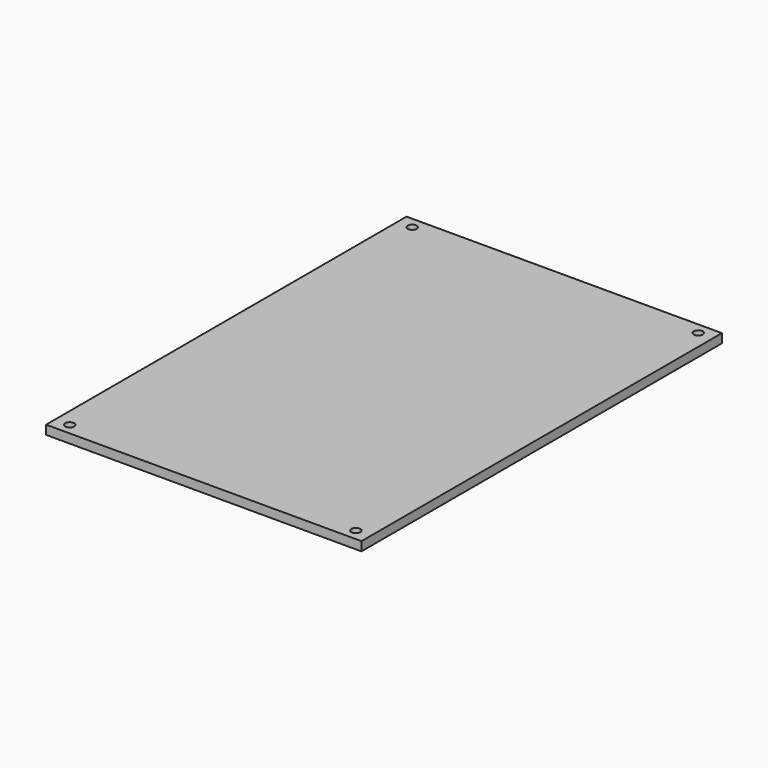
from build123d import *

# Parameters (mm, degrees)
F0_W           = 280
F0_H           = 400
F1_DEPTH       = 8
F3_D           = 4
F3_CBORE_D     = 8
F3_CBORE_DEPTH = 5


with BuildPart() as f1:
    # F0 (on Top) → F1 (new body)
    with BuildSketch(Plane.XY):
        Rectangle(F0_W, F0_H)
    extrude(amount=F1_DEPTH)

    # F3 (through all)
    with Locations(Plane.XY.offset(8)):
        with Locations((-127, 190), (127, 190), (-127, -190), (127, -190)):
            CounterBoreHole(F3_D / 2, F3_CBORE_D / 2, F3_CBORE_DEPTH)


solid = f1.part
